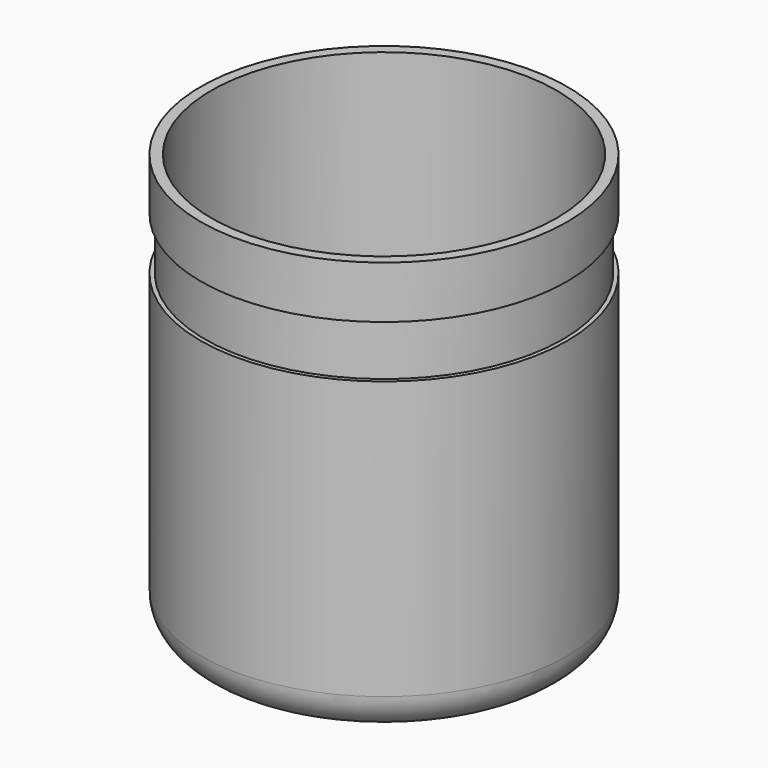
from build123d import *

# Parameters (mm, degrees)
F2_W = 2.032
F2_H = 25.4


with BuildPart() as f1:
    # F0 (on Front) → F1 (revolve)
    with BuildSketch(Plane.XZ):
        with BuildLine():
            Line((0, 5.08), (0, 0))
            Line((0, 0), (71.12, 0))
            ThreePointArc((71.12, 0), (83.692359, 5.207641), (88.9, 17.78))
            Line((88.9, 17.78), (88.9, 203.2))
            Line((88.9, 203.2), (83.82, 203.2))
            Line((83.82, 203.2), (83.82, 17.78))
            ThreePointArc((83.82, 17.78), (80.100256, 8.799744), (71.12, 5.08))
            Line((71.12, 5.08), (0, 5.08))
        make_face()
    revolve(axis=Axis((0, 0, 21.288667), (0, 0, 1)))

    # F2 (on Front) → F3 (revolve, cut)
    with BuildSketch(Plane.XZ):
        with Locations((87.884, 165.1)):
            Rectangle(F2_W, F2_H)
    revolve(axis=Axis((0, 0, 17.78), (0, 0, 1)), mode=Mode.SUBTRACT)


solid = f1.part
